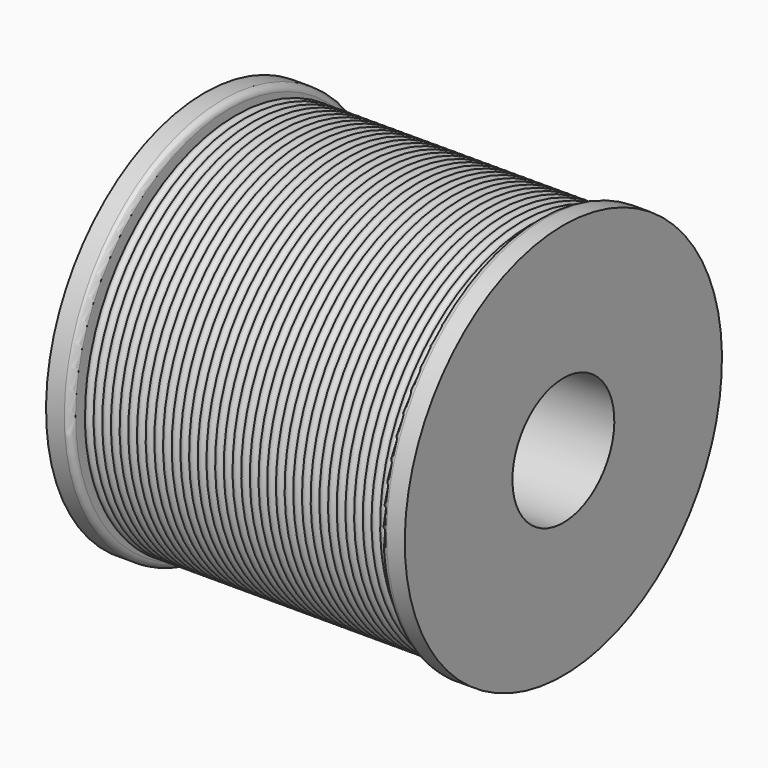
from build123d import *

# Parameters (mm, degrees)
F3_R = 1


with BuildPart() as f1:
    # F0 (on Front) → F1 (revolve)
    with BuildSketch(Plane.XZ):
        with BuildLine():
            ThreePointArc((-19.665065, 29.51819), (-20.355065, 30.100292), (-21.045065, 29.51819))
            ThreePointArc((-21.045065, 29.51819), (-21.735065, 30.100292), (-22.425065, 29.51819))
            ThreePointArc((-22.425065, 29.51819), (-23.481697, 29.996598), (-23.531704, 28.837787))
            ThreePointArc((-23.531704, 28.837787), (-24.422886, 27.860222), (-23.117903, 28.076682))
            ThreePointArc((-23.117903, 28.076682), (-22.427903, 27.49458), (-21.737903, 28.076682))
            ThreePointArc((-21.737903, 28.076682), (-21.047903, 27.49458), (-20.357903, 28.076682))
            ThreePointArc((-20.357903, 28.076682), (-19.667903, 27.49458), (-18.977903, 28.076682))
            ThreePointArc((-18.977903, 28.076682), (-18.287903, 27.49458), (-17.597903, 28.076682))
            ThreePointArc((-17.597903, 28.076682), (-16.907903, 27.49458), (-16.217903, 28.076682))
            ThreePointArc((-16.217903, 28.076682), (-15.527903, 27.49458), (-14.837903, 28.076682))
            ThreePointArc((-14.837903, 28.076682), (-14.147903, 27.49458), (-13.457903, 28.076682))
            ThreePointArc((-13.457903, 28.076682), (-12.767903, 27.49458), (-12.077903, 28.076682))
            ThreePointArc((-12.077903, 28.076682), (-11.387903, 27.49458), (-10.697903, 28.076682))
            ThreePointArc((-10.697903, 28.076682), (-10.007903, 27.49458), (-9.317903, 28.076682))
            ThreePointArc((-9.317903, 28.076682), (-8.627903, 27.49458), (-7.937903, 28.076682))
            ThreePointArc((-7.937903, 28.076682), (-7.247903, 27.49458), (-6.557903, 28.076682))
            ThreePointArc((-6.557903, 28.076682), (-5.867903, 27.49458), (-5.177903, 28.076682))
            ThreePointArc((-5.177903, 28.076682), (-4.487903, 27.49458), (-3.797903, 28.076682))
            ThreePointArc((-3.797903, 28.076682), (-3.107903, 27.49458), (-2.417903, 28.076682))
            ThreePointArc((-2.417903, 28.076682), (-1.727903, 27.49458), (-1.037903, 28.076682))
            ThreePointArc((-1.037903, 28.076682), (-0.347903, 27.49458), (0.342097, 28.076682))
            ThreePointArc((0.342097, 28.076682), (1.032097, 27.49458), (1.722097, 28.076682))
            ThreePointArc((1.722097, 28.076682), (2.412097, 27.49458), (3.102097, 28.076682))
            ThreePointArc((3.102097, 28.076682), (3.792097, 27.49458), (4.482097, 28.076682))
            ThreePointArc((4.482097, 28.076682), (5.172097, 27.49458), (5.862097, 28.076682))
            ThreePointArc((5.862097, 28.076682), (6.552097, 27.49458), (7.242097, 28.076682))
            ThreePointArc((7.242097, 28.076682), (7.932097, 27.49458), (8.622097, 28.076682))
            ThreePointArc((8.622097, 28.076682), (9.312097, 27.49458), (10.002097, 28.076682))
            ThreePointArc((10.002097, 28.076682), (10.692097, 27.49458), (11.382097, 28.076682))
            ThreePointArc((11.382097, 28.076682), (12.072097, 27.49458), (12.762097, 28.076682))
            ThreePointArc((12.762097, 28.076682), (13.452097, 27.49458), (14.142097, 28.076682))
            ThreePointArc((14.142097, 28.076682), (14.832097, 27.49458), (15.522097, 28.076682))
            ThreePointArc((15.522097, 28.076682), (16.212097, 27.49458), (16.902097, 28.076682))
            ThreePointArc((16.902097, 28.076682), (17.592097, 27.49458), (18.282097, 28.076682))
            ThreePointArc((18.282097, 28.076682), (18.972097, 27.49458), (19.662097, 28.076682))
            ThreePointArc((19.662097, 28.076682), (20.352097, 27.49458), (21.042097, 28.076682))
            ThreePointArc((21.042097, 28.076682), (21.732097, 27.49458), (22.422097, 28.076682))
            ThreePointArc((22.422097, 28.076682), (23.478729, 27.598274), (23.528737, 28.757085))
            ThreePointArc((23.528737, 28.757085), (24.419918, 29.73465), (23.114935, 29.51819))
            ThreePointArc((23.114935, 29.51819), (22.424935, 30.100292), (21.734935, 29.51819))
            ThreePointArc((21.734935, 29.51819), (21.044935, 30.100292), (20.354935, 29.51819))
            ThreePointArc((20.354935, 29.51819), (19.664935, 30.100292), (18.974935, 29.51819))
            ThreePointArc((18.974935, 29.51819), (18.284935, 30.100292), (17.594935, 29.51819))
            ThreePointArc((17.594935, 29.51819), (16.904935, 30.100292), (16.214935, 29.51819))
            ThreePointArc((16.214935, 29.51819), (15.524935, 30.100292), (14.834935, 29.51819))
            ThreePointArc((14.834935, 29.51819), (14.144935, 30.100292), (13.454935, 29.51819))
            ThreePointArc((13.454935, 29.51819), (12.764935, 30.100292), (12.074935, 29.51819))
            ThreePointArc((12.074935, 29.51819), (11.384935, 30.100292), (10.694935, 29.51819))
            ThreePointArc((10.694935, 29.51819), (10.004935, 30.100292), (9.314935, 29.51819))
            ThreePointArc((9.314935, 29.51819), (8.624935, 30.100292), (7.934935, 29.51819))
            ThreePointArc((7.934935, 29.51819), (7.244935, 30.100292), (6.554935, 29.51819))
            ThreePointArc((6.554935, 29.51819), (5.864935, 30.100292), (5.174935, 29.51819))
            ThreePointArc((5.174935, 29.51819), (4.484935, 30.100292), (3.794935, 29.51819))
            ThreePointArc((3.794935, 29.51819), (3.104935, 30.100292), (2.414935, 29.51819))
            ThreePointArc((2.414935, 29.51819), (1.724935, 30.100292), (1.034935, 29.51819))
            ThreePointArc((1.034935, 29.51819), (0.344935, 30.100292), (-0.345065, 29.51819))
            ThreePointArc((-0.345065, 29.51819), (-1.035065, 30.100292), (-1.725065, 29.51819))
            ThreePointArc((-1.725065, 29.51819), (-2.415065, 30.100292), (-3.105065, 29.51819))
            ThreePointArc((-3.105065, 29.51819), (-3.795065, 30.100292), (-4.485065, 29.51819))
            ThreePointArc((-4.485065, 29.51819), (-5.175065, 30.100292), (-5.865065, 29.51819))
            ThreePointArc((-5.865065, 29.51819), (-6.555065, 30.100292), (-7.245065, 29.51819))
            ThreePointArc((-7.245065, 29.51819), (-7.935065, 30.100292), (-8.625065, 29.51819))
            ThreePointArc((-8.625065, 29.51819), (-9.315065, 30.100292), (-10.005065, 29.51819))
            ThreePointArc((-10.005065, 29.51819), (-10.695065, 30.100292), (-11.385065, 29.51819))
            ThreePointArc((-11.385065, 29.51819), (-12.075065, 30.100292), (-12.765065, 29.51819))
            ThreePointArc((-12.765065, 29.51819), (-13.455065, 30.100292), (-14.145065, 29.51819))
            ThreePointArc((-14.145065, 29.51819), (-14.835065, 30.100292), (-15.525065, 29.51819))
            ThreePointArc((-15.525065, 29.51819), (-16.215065, 30.100292), (-16.905065, 29.51819))
            ThreePointArc((-16.905065, 29.51819), (-17.595065, 30.100292), (-18.285065, 29.51819))
            ThreePointArc((-18.285065, 29.51819), (-18.975065, 30.100292), (-19.665065, 29.51819))
        make_face()
    revolve(axis=Axis((6.404204, 0, 0), (1, 0, 0)))


with BuildPart() as f2:
    # F0 (on Front) → F2 (revolve)
    with BuildSketch(Plane.XZ):
        Polygon((24.6, 17.6), (0, 17.6), (-24.6, 17.6), (-24.6, 31.5), (-28.5, 31.5), (-28.5, 10.12), (0, 10.12), (28.5, 10.12), (28.5, 31.5), (24.6, 31.5), align=None)
    revolve(axis=Axis((6.404204, 0, 0), (1, 0, 0)))

    # F3
    f3_edges = [f2.edges().sort_by_distance(p)[0] for p in [
        (-24.6, 0, -31.5),
        (24.6, 0, -31.5),
    ]]
    fillet(f3_edges, radius=F3_R)


solid = Compound([f1.part, f2.part])
